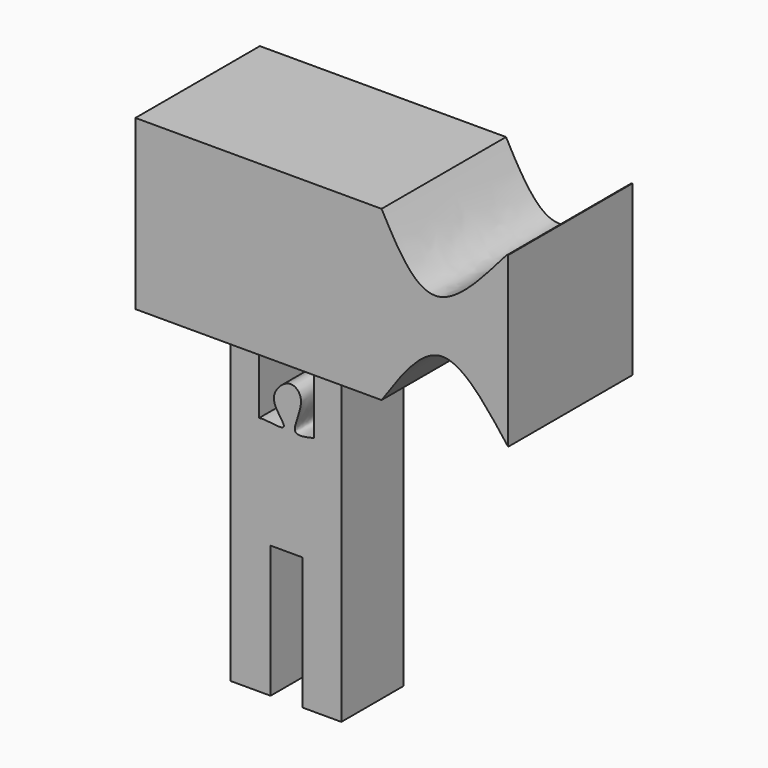
from build123d import *

# Parameters (mm, degrees)
F1_DEPTH = 25.4
F3_DEPTH = 12.7


with BuildPart() as f1:
    # F0 (on Front) → F1 (new body)
    with BuildSketch(Plane.XZ):
        with BuildLine():
            Line((-5.9723113663, 45.0293272734), (-46.1669079959, 45.0293272734))
            Line((-46.1669079959, 45.0293272734), (-46.1669079959, 17.5377372652))
            Line((-46.1669079959, 17.5377372652), (-5.9723113663, 17.5377372652))
            add(Edge.make_bspline(
                [(-5.9723113663, 17.5377372652), (-2.7421037419, 22.2388113669), (3.7997517849, 31.7594834628), (11.0324224964, 22.3175007577), (14.6937780082, 17.5377372652)],
                knots=[0, 0, 0, 0, 0.4937754451, 1, 1, 1, 1], degree=3))
            Line((14.6937780082, 17.5377372652), (14.6510465513, 45.0568711834))
            add(Edge.make_bspline(
                [(-5.9723113663, 45.0293272734), (-3.1039018596, 39.7353803072), (2.6906778005, 29.0408831168), (14.035828108, 45.0860466111), (14.6176635276, 45.0721417685), (14.6510465513, 45.0568711834)],
                knots=[0, 0, 0, 0, 0.4677545083, 0.944928105, 0.9824927302, 0.9824927302, 0.9824927302, 0.9824927302], degree=3))
        make_face()
    extrude(amount=F1_DEPTH)

    # F2 (on Front) → F3 (join)
    with BuildSketch(Plane.XZ):
        with BuildLine():
            Line((-40.8112728043, -17.1658259542), (-40.8112728043, -39.3341283589))
            Line((-40.8112728043, -39.3341283589), (-34.2571637339, -39.3341283589))
            Line((-34.2571637339, -39.3341283589), (-34.2571637339, -17.7441283589))
            Line((-34.2571637339, -17.7441283589), (-29.0524326225, -17.7441283589))
            Line((-29.0524326225, -17.7441283589), (-29.0524326225, -39.3341283589))
            Line((-29.0524326225, -39.3341283589), (-22.7024326225, -39.3341283589))
            Line((-22.7024326225, -39.3341283589), (-22.7024326225, -17.1658259542))
            Line((-22.7024326225, -17.1658259542), (-22.7024326225, 0))
            Line((-22.7024326225, 0), (-22.7024326225, 17.9169308394))
            Line((-22.7024326225, 17.9169308394), (-27.2071920335, 17.9169308394))
            Line((-27.2071920335, 17.9169308394), (-27.2071920335, 0))
            add(Edge.make_bspline(
                [(-27.2071920335, 0), (-28.5825818847, -0.3177946326), (-31.6773810864, -1.0328723065), (-28.2469905577, 4.7548163588), (-31.0048564618, 7.3974553181), (-33.9624208414, 4.7018522539), (-33.6773839228, 2.2731173072), (-30.9591203554, -0.6389776746), (-34.9429871553, 0.1082431292), (-35.7740289914, 0.0317036785), (-36.1182577908, 0)],
                knots=[0, 0, 0, 0, 0.131934451, 0.2968690174, 0.4178502166, 0.5514286485, 0.6705283065, 0.7893202312, 0.9127335825, 1, 1, 1, 1], degree=3))
            Line((-36.1182577908, 0), (-36.1182577908, 17.9169308394))
            Line((-36.1182577908, 17.9169308394), (-40.8112728043, 17.9169308394))
            Line((-40.8112728043, 17.9169308394), (-40.8112728043, 0))
            Line((-40.8112728043, 0), (-40.8112728043, -17.1658259542))
        make_face()
    extrude(amount=F3_DEPTH)


solid = f1.part
